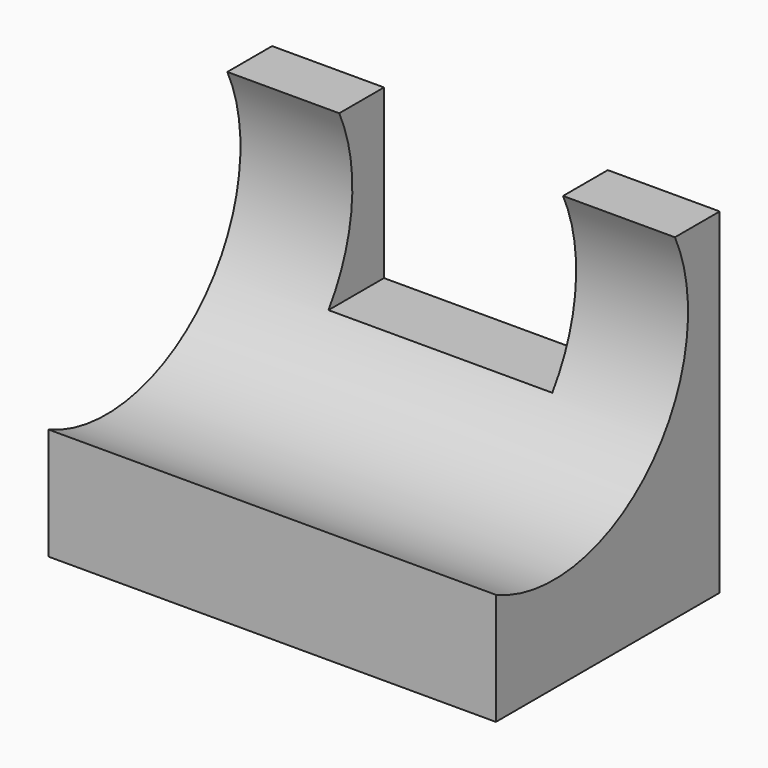
from build123d import *

# Parameters (mm, degrees)
F1_DEPTH = 50.8
F2_W     = 25.4
F2_H     = 15.875
F3_DEPTH = 19.05


with BuildPart() as f1:
    # F0 (on Right) → F1 (new body)
    with BuildSketch(Plane.YZ):
        with BuildLine():
            Line((0, 0), (0, 38.1))
            Line((0, 38.1), (-6.35, 38.1))
            ThreePointArc((-6.35, 38.1), (-10.069744, 16.419744), (-31.75, 12.7))
            Line((-31.75, 12.7), (-31.75, 0))
            Line((-31.75, 0), (0, 0))
        make_face()
    extrude(amount=F1_DEPTH)

    # F2 (on face) → F3 (cut)
    with BuildSketch(Plane.XY.offset(38.1)):
        with Locations((25.4, -7.9375)):
            Rectangle(F2_W, F2_H)
    extrude(amount=-F3_DEPTH, mode=Mode.SUBTRACT)


solid = f1.part
